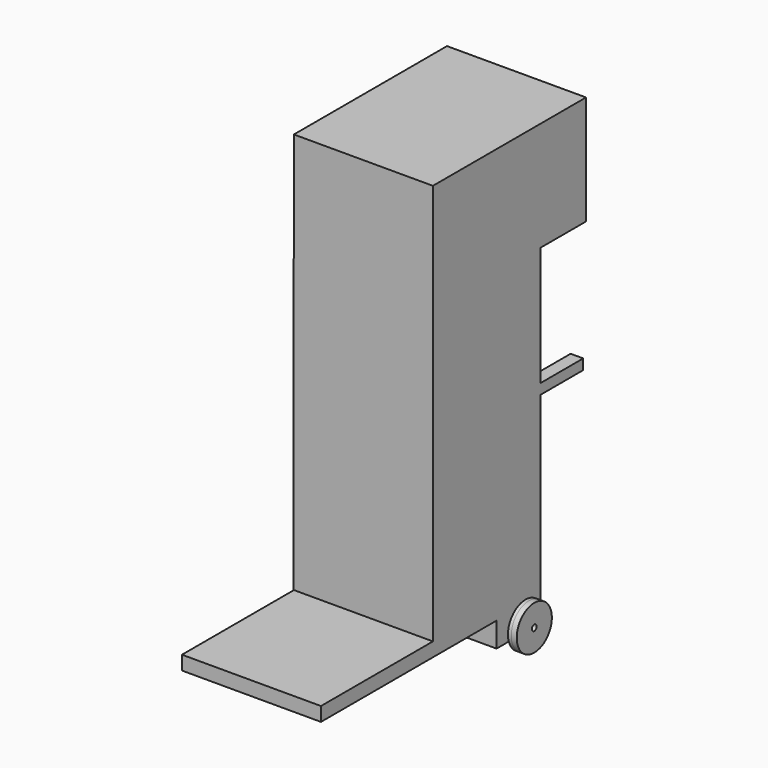
from build123d import *

# Parameters (mm, degrees)
F0_W      = 12.8894392401
F0_H      = 27.0200837404
F1_DEPTH  = 12.446
F2_W      = 12.8653319553
F2_H      = 1.2952884426
F3_DEPTH  = 25.4
F4_W      = 5.08
F4_H      = 5.08
F5_DEPTH  = 2.286
F7_DEPTH  = 25.4
F8_DEPTH  = 16.129
F9_R      = 0.2734183719
F10_DEPTH = 13.8176
F11_DEPTH = 1.0414
F12_R     = 2.032
F12_R_2   = 0.2734183719
F13_DEPTH = 0.508
F14_DEPTH = 0.3048
F15_W     = 3.4224744886
F15_H     = 1.4192797244
F15_W_2   = 1.3463029172
F16_DEPTH = 1.0668
F17_W     = 4.9497946166
F17_H     = 0.95630344
F17_W_2   = 1.7731732223
F18_DEPTH = 1.1684
F19_W     = 12.8693562001
F19_H     = 5.2719768137
F19_H_2   = 12.446
F20_DEPTH = 10.1092
F21_R     = 2.032
F22_DEPTH = 0.508
F23_DEPTH = 0.3048


with BuildPart() as f1:
    # F0 (on Front) → F1 (new body)
    with BuildSketch(Plane.XZ):
        with Locations((-6.44471962, 13.5100418702)):
            Rectangle(F0_W, F0_H)
    extrude(amount=F1_DEPTH)

    # F2 (on Front) → F3 (join)
    with BuildSketch(Plane.XZ):
        with Locations((-6.4326659776, -0.6476442213)):
            Rectangle(F2_W, F2_H)
    extrude(amount=F3_DEPTH)

    # F4 (on face) → F5 (join)
    with BuildSketch(Plane(origin=(0, 0, -1.2952884426), x_dir=(1, 0, 0), z_dir=(0, 0, -1))):
        with Locations((-2.54, 2.54)):
            Rectangle(F4_W, F4_H)
        with Locations((-10.3253319553, 2.54)):
            Rectangle(F4_W, F4_H)
    extrude(amount=F5_DEPTH)

    # F6 (on face) → F7 (cut)
    with BuildSketch(Plane(origin=(-5.08, 0, 0), x_dir=(0, -1, 0), z_dir=(-1, 0, 0))):
        with BuildLine():
            Line((2.159, -2.4382884426), (2.921, -2.4382884426))
            ThreePointArc((2.921, -2.4382884426), (2.54, -2.0572884426), (2.159, -2.4382884426))
        make_face()
        with BuildLine():
            ThreePointArc((2.159, -2.4382884426), (2.54, -2.8192884426), (2.921, -2.4382884426))
            Line((2.921, -2.4382884426), (2.159, -2.4382884426))
        make_face()
    extrude(amount=-F7_DEPTH, mode=Mode.SUBTRACT)

    # F6 (on face) → F8 (cut)
    with BuildSketch(Plane(origin=(-5.08, 0, 0), x_dir=(0, -1, 0), z_dir=(-1, 0, 0))):
        with BuildLine():
            ThreePointArc((2.159, -2.4382884426), (2.54, -2.8192884426), (2.921, -2.4382884426))
            Line((2.921, -2.4382884426), (2.159, -2.4382884426))
        make_face()
        with BuildLine():
            Line((2.159, -2.4382884426), (2.921, -2.4382884426))
            ThreePointArc((2.921, -2.4382884426), (2.54, -2.0572884426), (2.159, -2.4382884426))
        make_face()
    extrude(amount=F8_DEPTH, mode=Mode.SUBTRACT)

    # F15 (on face) → F16 (join)
    with BuildSketch(Plane(origin=(-12.8894392401, 0, 0), x_dir=(0, -1, 0), z_dir=(-1, 0, 0))):
        with Locations((-1.7112372443, 14.8844057694)):
            Rectangle(F15_W, F15_H)
        with Locations((0.6731514586, 14.8844057694)):
            Rectangle(F15_W_2, F15_H)
    extrude(amount=-F16_DEPTH)

    # F17 (on face) → F18 (join)
    with BuildSketch(Plane.YZ):
        with Locations((2.4748973083, 15.5142215081)):
            Rectangle(F17_W, F17_H)
        with Locations((-0.8865866112, 15.5142215081)):
            Rectangle(F17_W_2, F17_H)
    extrude(amount=-F18_DEPTH)

    # F19 (on face) → F20 (join)
    with BuildSketch(Plane.XY.offset(27.0200837404)):
        with Locations((-6.4346781, 2.6359884068)):
            Rectangle(F19_W, F19_H)
        with Locations((-6.4346781, -6.223)):
            Rectangle(F19_W, F19_H_2)
    extrude(amount=F20_DEPTH)


with BuildPart() as f10:
    # F9 (on face) → F10 (new body)
    with BuildSketch(Plane(origin=(-12.8653319553, 0, 0), x_dir=(0, -1, 0), z_dir=(-1, 0, 0))):
        with Locations((2.54, -2.4382884426)):
            Circle(F9_R)
    extrude(amount=-F10_DEPTH)

    # F9 (on face) → F11 (join)
    with BuildSketch(Plane(origin=(-12.8653319553, 0, 0), x_dir=(0, -1, 0), z_dir=(-1, 0, 0))):
        with Locations((2.54, -2.4382884426)):
            Circle(F9_R)
    extrude(amount=F11_DEPTH)

    # F21 (on face) → F22 (join)
    with BuildSketch(Plane(origin=(-13.9067319553, 0, 0), x_dir=(0, -1, 0), z_dir=(-1, 0, 0))):
        with Locations((2.54, -2.4382884426)):
            Circle(F21_R)
    extrude(amount=F22_DEPTH)

    # F23 (add): a face of the model
    f23_faces = [f10.faces().sort_by_distance(p)[0] for p in [
        (-13.9067319553, -0.5654736392, -2.4382884426),
    ]]
    extrude(f23_faces, amount=F23_DEPTH)


with BuildPart() as f13:
    # F12 (on face) → F13 (new body)
    with BuildSketch(Plane.YZ.offset(0.9522680447)):
        with Locations((-2.54, -2.4382884426)):
            Circle(F12_R)
        with Locations((-2.54, -2.4382884426)):
            Circle(F12_R_2, mode=Mode.SUBTRACT)
    extrude(amount=F13_DEPTH)


with BuildPart() as f14:
    # F14 (new): a face of the model
    f14_faces = [f13.part.faces().sort_by_distance(p)[0] for p in [
        (0.9522680447, -4.5145263608, -2.4382884426),
    ]]
    extrude(f14_faces, amount=F14_DEPTH)


solid = Compound([f1.part, f10.part, f13.part, f14.part])
